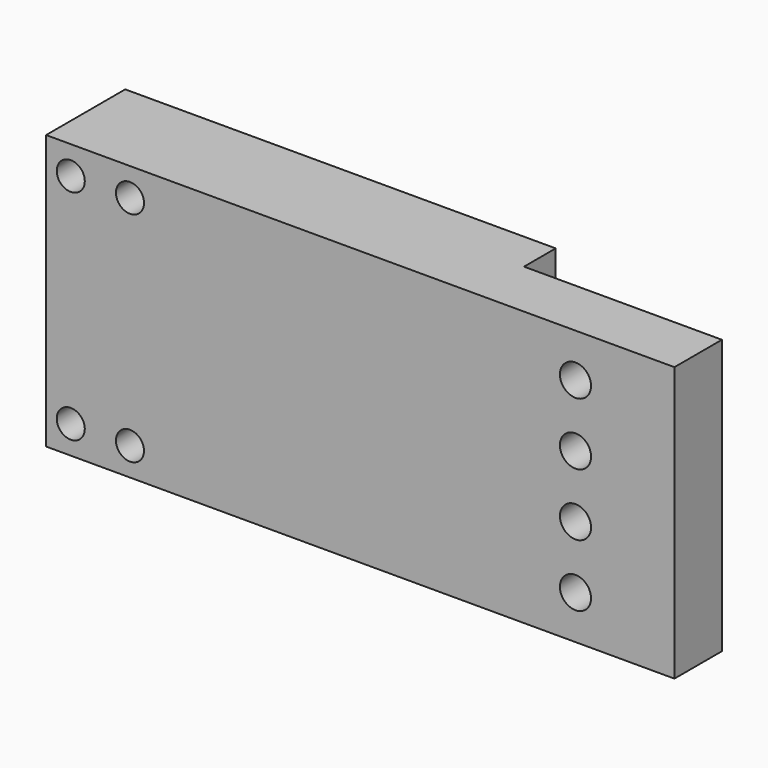
from build123d import *

# Parameters (mm, degrees)
F0_W     = 201.639
F0_H     = 88
F1_DEPTH = 31.75
F2_W     = 63.5
F2_H     = 12.7
F3_DEPTH = 88.001
F4_R     = 4.5
F4_R_2   = 5
F5_DEPTH = 31.751


with BuildPart() as f1:
    # F0 (on Front) → F1 (new body)
    with BuildSketch(Plane.XZ):
        with Locations((-3.479119, -15.731822)):
            Rectangle(F0_W, F0_H)
    extrude(amount=F1_DEPTH)

    # F2 (on face) → F3 (cut, through all)
    with BuildSketch(Plane(origin=(0, 0, -59.731822), x_dir=(1, 0, 0), z_dir=(0, 0, -1))):
        with Locations((65.590381, 6.35)):
            Rectangle(F2_W, F2_H)
    extrude(amount=-F3_DEPTH, mode=Mode.SUBTRACT)

    # F4 (on face) → F5 (cut, through all)
    with BuildSketch(Plane.XZ.offset(31.75)):
        with Locations((-96.376619, -50.731822)):
            Circle(F4_R)
        with Locations((-96.376619, 19.268178)):
            Circle(F4_R)
        with Locations((-77.376619, -50.731822)):
            Circle(F4_R)
        with Locations((-77.376619, 19.268178)):
            Circle(F4_R)
        with Locations((65.590381, -45.731822)):
            Circle(F4_R_2)
        with Locations((65.590381, -25.731822)):
            Circle(F4_R_2)
        with Locations((65.590381, -5.731822)):
            Circle(F4_R_2)
        with Locations((65.590381, 14.268178)):
            Circle(F4_R_2)
    extrude(amount=-F5_DEPTH, mode=Mode.SUBTRACT)


solid = f1.part
